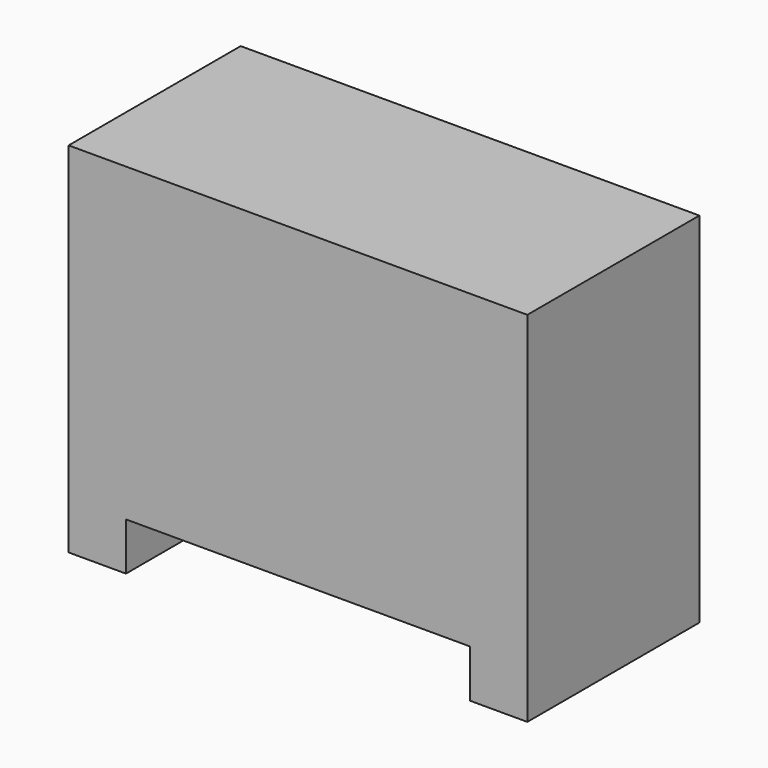
from build123d import *

# Parameters (mm, degrees)
F0_W     = 1219.2
F0_H     = 571.5
F1_DEPTH = 952.5
F2_W     = 914.4
F2_H     = 127
F3_DEPTH = 571.501


with BuildPart() as f1:
    # F0 (on Top) → F1 (new body)
    with BuildSketch(Plane.XY):
        Rectangle(F0_W, F0_H)
    extrude(amount=F1_DEPTH)

    # F2 (on face) → F3 (cut, through all)
    with BuildSketch(Plane.XZ.offset(285.75)):
        with Locations((0, 63.5)):
            Rectangle(F2_W, F2_H)
    extrude(amount=-F3_DEPTH, mode=Mode.SUBTRACT)


solid = f1.part
